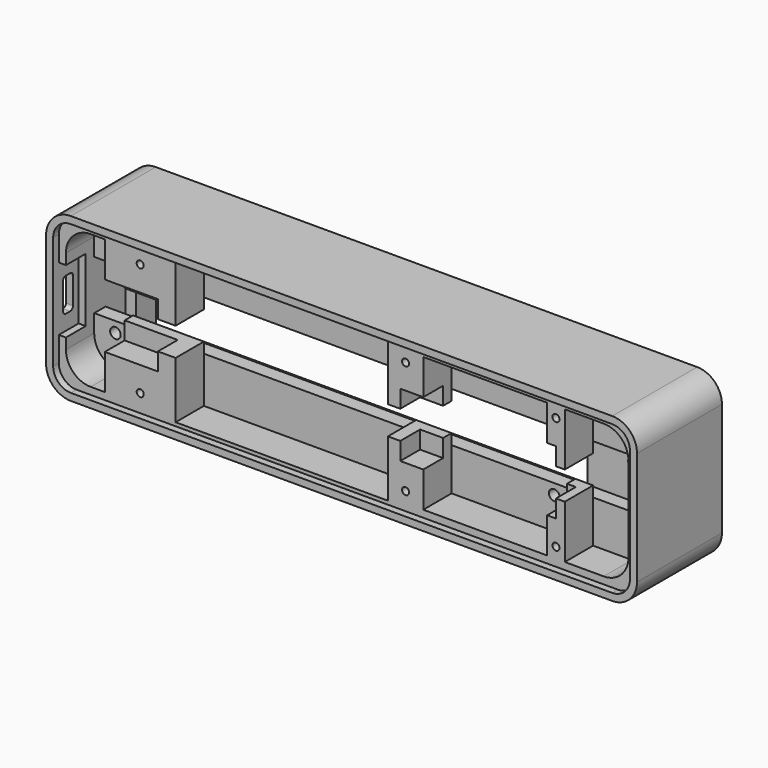
from build123d import *

# Parameters (mm, degrees)
SKETCH_R        = 8
SKETCH_W        = 130
SKETCH_H        = 32
PAD_DEPTH       = 7
PAD001_DEPTH    = 7
SKETCH003_W     = 26
SKETCH003_H     = 24
SKETCH003_R     = 3.5
PAD002_DEPTH    = 3
SKETCH004_R     = 1.5
SKETCH004_W     = 159
SKETCH004_H     = 14
PAD003_DEPTH    = 4
PAD004_DEPTH    = 10
POCKET_DEPTH    = 7
POCKET001_DEPTH = 10
PAD005_DEPTH    = 2
SKETCH009_R     = 1
POCKET002_DEPTH = 10


with BuildPart() as part:
    # Sketch → Pad (new body)
    with BuildSketch(Plane.XZ):
        with BuildLine():
            ThreePointArc((7, 0), (2.050253, -2.050253), (0, -7))
            Line((0, -39), (0, -7))
            ThreePointArc((0, -39), (2.050253, -43.949747), (7, -46))
            Line((160, -46), (7, -46))
            ThreePointArc((160, -46), (164.949747, -43.949747), (167, -39))
            Line((167, -7), (167, -39))
            ThreePointArc((167, -7), (164.949747, -2.050253), (160, 0))
            Line((7, 0), (160, 0))
        make_face()
        with Locations((152, -23)):
            Circle(SKETCH_R, mode=Mode.SUBTRACT)
        with Locations((72, -23)):
            Rectangle(SKETCH_W, SKETCH_H, mode=Mode.SUBTRACT)
    extrude(amount=PAD_DEPTH)

    # Sketch002 (on Face15 of Pad) → Pad001 (join)
    with BuildSketch(Plane.XZ.offset(7)):
        with BuildLine():
            ThreePointArc((7, 0), (2.050253, -2.050253), (0, -7))
            Line((0, -39), (0, -7))
            ThreePointArc((0, -39), (2.050253, -43.949747), (7, -46))
            Line((160, -46), (7, -46))
            ThreePointArc((160, -46), (164.949747, -43.949747), (167, -39))
            Line((167, -7), (167, -39))
            ThreePointArc((167, -7), (164.949747, -2.050253), (160, 0))
            Line((7, 0), (160, 0))
        make_face()
        with BuildLine():
            ThreePointArc((11, -4), (6.050253, -6.050253), (4, -11))
            Line((4, -35), (4, -11))
            ThreePointArc((4, -35), (6.050253, -39.949747), (11, -42))
            Line((156, -42), (11, -42))
            ThreePointArc((156, -42), (160.949747, -39.949747), (163, -35))
            Line((163, -11), (163, -35))
            ThreePointArc((163, -11), (160.949747, -6.050253), (156, -4))
            Line((11, -4), (156, -4))
        make_face(mode=Mode.SUBTRACT)
    extrude(amount=PAD001_DEPTH)

    # Sketch003 (on Face24 of Pad001) → Pad002 (join)
    with BuildSketch(Plane.XZ.offset(7)):
        with Locations((150, -23)):
            Rectangle(SKETCH003_W, SKETCH003_H)
        with Locations((152, -23)):
            Circle(SKETCH003_R, mode=Mode.SUBTRACT)
    extrude(amount=PAD002_DEPTH)

    # Sketch004 (on Face18 of Pad002) → Pad003 (join)
    with BuildSketch(Plane.XZ.offset(14)):
        with BuildLine():
            ThreePointArc((7, 0), (2.050253, -2.050253), (0, -7))
            Line((0, -39), (0, -7))
            ThreePointArc((0, -39), (2.050253, -43.949747), (7, -46))
            Line((160, -46), (7, -46))
            ThreePointArc((160, -46), (164.949747, -43.949747), (167, -39))
            Line((167, -7), (167, -39))
            ThreePointArc((167, -7), (164.949747, -2.050253), (160, 0))
            Line((7, 0), (160, 0))
        make_face()
        with Locations((10, -13)):
            Circle(SKETCH004_R, mode=Mode.SUBTRACT)
        with Locations((10, -33)):
            Circle(SKETCH004_R, mode=Mode.SUBTRACT)
        with Locations((134, -13)):
            Circle(SKETCH004_R, mode=Mode.SUBTRACT)
        with Locations((134, -33)):
            Circle(SKETCH004_R, mode=Mode.SUBTRACT)
        with Locations((83.5, -23)):
            Rectangle(SKETCH004_W, SKETCH004_H, mode=Mode.SUBTRACT)
    extrude(amount=PAD003_DEPTH)

    # Sketch005 (on Face29 of Pad003) → Pad004 (join)
    with BuildSketch(Plane.XZ.offset(18)):
        with BuildLine():
            ThreePointArc((7, 0), (2.050253, -2.050253), (0, -7))
            Line((0, -39), (0, -7))
            ThreePointArc((0, -39), (2.050253, -43.949747), (7, -46))
            Line((160, -46), (7, -46))
            ThreePointArc((160, -46), (164.949747, -43.949747), (167, -39))
            Line((167, -7), (167, -39))
            ThreePointArc((167, -7), (164.949747, -2.050253), (160, 0))
            Line((7, 0), (160, 0))
        make_face()
        with BuildLine():
            ThreePointArc((11, -4), (6.050253, -6.050253), (4, -11))
            Line((4, -35), (4, -11))
            ThreePointArc((4, -35), (6.050253, -39.949747), (11, -42))
            Line((11, -42), (15, -42))
            Line((15, -42), (15, -27))
            Line((15, -27), (35, -27))
            Line((35, -27), (35, -43))
            Line((35, -43), (95, -43))
            Line((95, -27), (95, -43))
            Line((95, -27), (105, -27))
            Line((105, -27), (105, -42))
            Line((105, -42), (140, -42))
            Line((140, -42), (140, -27))
            Line((140, -27), (145, -27))
            Line((145, -27), (145, -42))
            Line((145, -42), (156, -42))
            ThreePointArc((156, -42), (160.949747, -39.949747), (163, -35))
            Line((163, -11), (163, -35))
            ThreePointArc((163, -11), (160.949747, -6.050253), (156, -4))
            Line((145, -4), (156, -4))
            Line((145, -19), (145, -4))
            Line((140, -19), (145, -19))
            Line((140, -4), (140, -19))
            Line((105, -4), (140, -4))
            Line((105, -19), (105, -4))
            Line((95, -19), (105, -19))
            Line((95, -3), (95, -19))
            Line((35, -3), (95, -3))
            Line((35, -3), (35, -19))
            Line((15, -19), (35, -19))
            Line((15, -4), (15, -19))
            Line((11, -4), (15, -4))
        make_face(mode=Mode.SUBTRACT)
    extrude(amount=PAD004_DEPTH)

    # Sketch006 (on Face48 of Pad004) → Pocket (cut)
    with BuildSketch(Plane.XZ.offset(28)):
        Polygon((2, -14), (30, -14), (30, -23), (30, -32), (2, -32), align=None)
        Polygon((98.5, -14), (142.5, -14), (142.5, -23), (142.5, -32), (98.5, -32), align=None)
    extrude(amount=-POCKET_DEPTH, mode=Mode.SUBTRACT)

    # Sketch007 (on Face33 of Pocket) → Pocket001 (cut)
    with BuildSketch(Plane(origin=(0, 0, 0), x_dir=(0, 0, -1), z_dir=(-1, 0, 0))):
        with BuildLine():
            ThreePointArc((19.25, 26.5), (18.542893, 26.207107), (18.25, 25.5))
            Line((18.25, 24.75), (18.25, 25.5))
            Line((18.25, 24), (18.25, 24.75))
            ThreePointArc((18.25, 24), (18.542893, 23.292893), (19.25, 23))
            Line((26.75, 23), (19.25, 23))
            ThreePointArc((26.75, 23), (27.457107, 23.292893), (27.75, 24))
            Line((27.75, 25.5), (27.75, 24))
            ThreePointArc((27.75, 25.5), (27.457107, 26.207107), (26.75, 26.5))
            Line((23, 26.5), (26.75, 26.5))
            Line((19.25, 26.5), (23, 26.5))
        make_face()
    extrude(amount=-POCKET001_DEPTH, mode=Mode.SUBTRACT)

    # Sketch008 (on Face48 of Pocket001) → Pad005 (join)
    with BuildSketch(Plane.XZ.offset(28)):
        with BuildLine():
            ThreePointArc((7, 0), (2.050253, -2.050253), (0, -7))
            Line((0, -39), (0, -7))
            ThreePointArc((0, -39), (2.050253, -43.949747), (7, -46))
            Line((160, -46), (7, -46))
            ThreePointArc((160, -46), (164.949747, -43.949747), (167, -39))
            Line((167, -7), (167, -39))
            ThreePointArc((167, -7), (164.949747, -2.050253), (160, 0))
            Line((7, 0), (160, 0))
        make_face()
        with BuildLine():
            ThreePointArc((7, -2), (3.464466, -3.464466), (2, -7))
            Line((2, -39), (2, -7))
            ThreePointArc((2, -39), (3.464466, -42.535534), (7, -44))
            Line((160, -44), (7, -44))
            ThreePointArc((160, -44), (163.535534, -42.535534), (165, -39))
            Line((165, -7), (165, -39))
            ThreePointArc((165, -7), (163.535534, -3.464466), (160, -2))
            Line((7, -2), (160, -2))
        make_face(mode=Mode.SUBTRACT)
    extrude(amount=PAD005_DEPTH)

    # Sketch009 (on Face111 of Pad005) → Pocket002 (cut)
    with BuildSketch(Plane.XZ.offset(28)):
        with Locations((25, -7)):
            Circle(SKETCH009_R)
        with Locations((100, -7)):
            Circle(SKETCH009_R)
        with Locations((142.5, -7)):
            Circle(SKETCH009_R)
        with Locations((25, -39)):
            Circle(SKETCH009_R)
        with Locations((100, -39)):
            Circle(SKETCH009_R)
        with Locations((142.5, -39)):
            Circle(SKETCH009_R)
    extrude(amount=-POCKET002_DEPTH, mode=Mode.SUBTRACT)


solid = part.part
